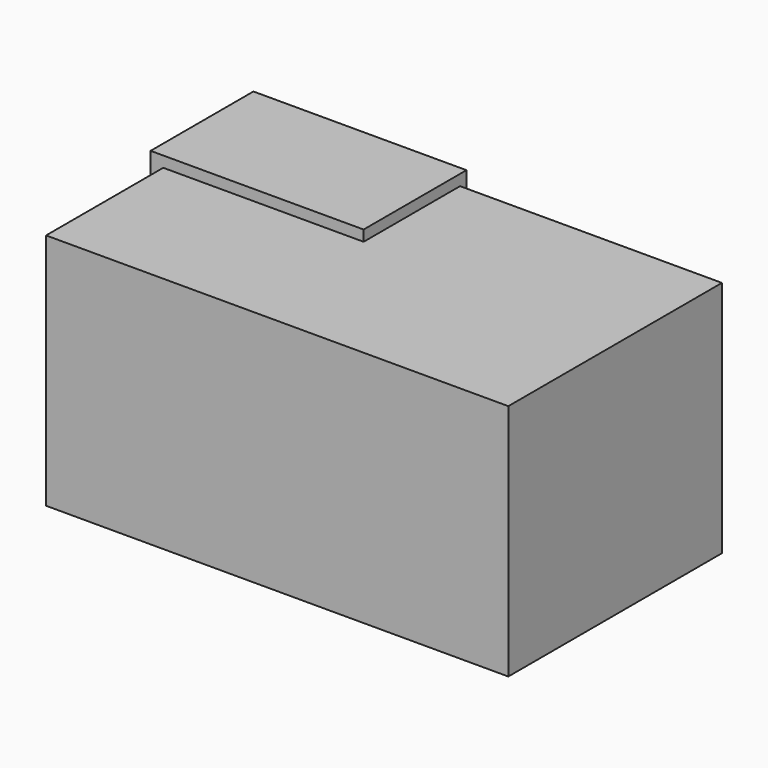
from build123d import *

# Parameters (mm, degrees)
F1_W     = 640.876718
F1_H     = 370.186116
F2_DEPTH = 330
F0_W     = 295.364954
F0_H     = 178.202663
F3_DEPTH = 345


with BuildPart() as f2:
    # F1 (on Top) → F2 (new body)
    with BuildSketch(Plane.XY):
        with Locations((242.221858, -144.041853)):
            Rectangle(F1_W, F1_H)
    extrude(amount=F2_DEPTH)

    # F0 (on Top) → F3 (join)
    with BuildSketch(Plane.XY):
        with Locations((51.913496, -36.990968)):
            Rectangle(F0_W, F0_H)
    extrude(amount=F3_DEPTH)


solid = f2.part
